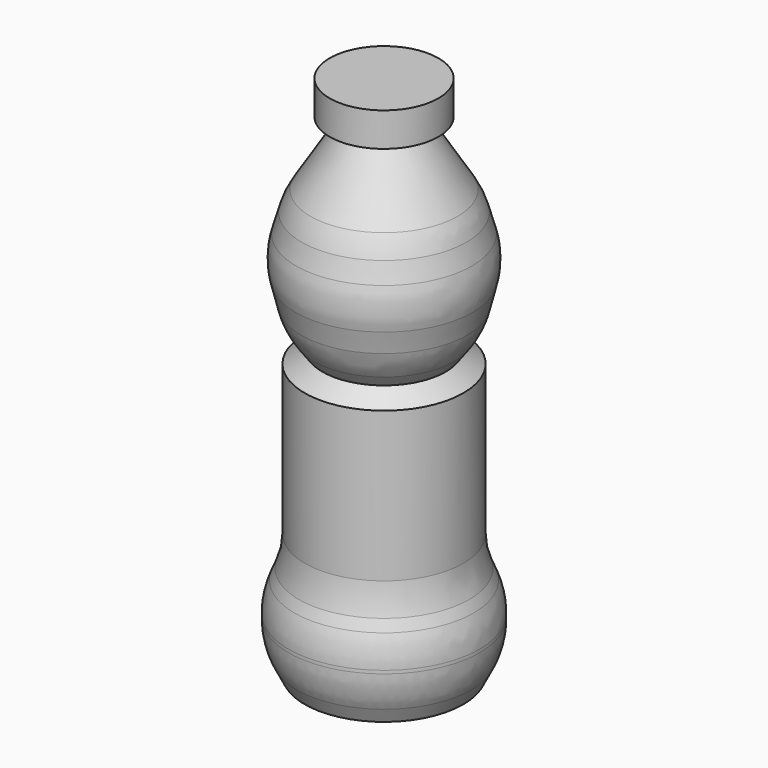
from build123d import *

# Parameters (mm, degrees)
F2_R = 8
F3_R = 8


with BuildPart() as f1:
    # F0 (on Front) → F1 (revolve)
    with BuildSketch(Plane.XZ):
        Polygon((5.534274, 53.437501), (0, 53.437501), (0, 0), (8.074597, 0), (9.715894, 3.241377), (9.715894, 7.051861), (8.074597, 11.043796), (8.074597, 27.870369), (6.268315, 29.188959), (8.074597, 31.66331), (9.526211, 37.46976), (8.074597, 42.550407), (3.901211, 49.264114), (5.534274, 49.98992), align=None)
    revolve(axis=Axis((0, 0, 26.718751), (0, 0, 1)))

    # F2
    f2_edges = [f1.edges().sort_by_distance(p)[0] for p in [
        (-8.074597, 0, 42.550407),
        (-9.526211, 0, 37.46976),
        (-8.074597, 0, 31.66331),
    ]]
    fillet(f2_edges, radius=F2_R)

    # F3
    f3_edges = [f1.edges().sort_by_distance(p)[0] for p in [
        (-8.074597, 0, 11.043796),
        (-9.715894, 0, 7.051861),
        (-9.715894, 0, 3.241377),
    ]]
    fillet(f3_edges, radius=F3_R)


solid = f1.part
